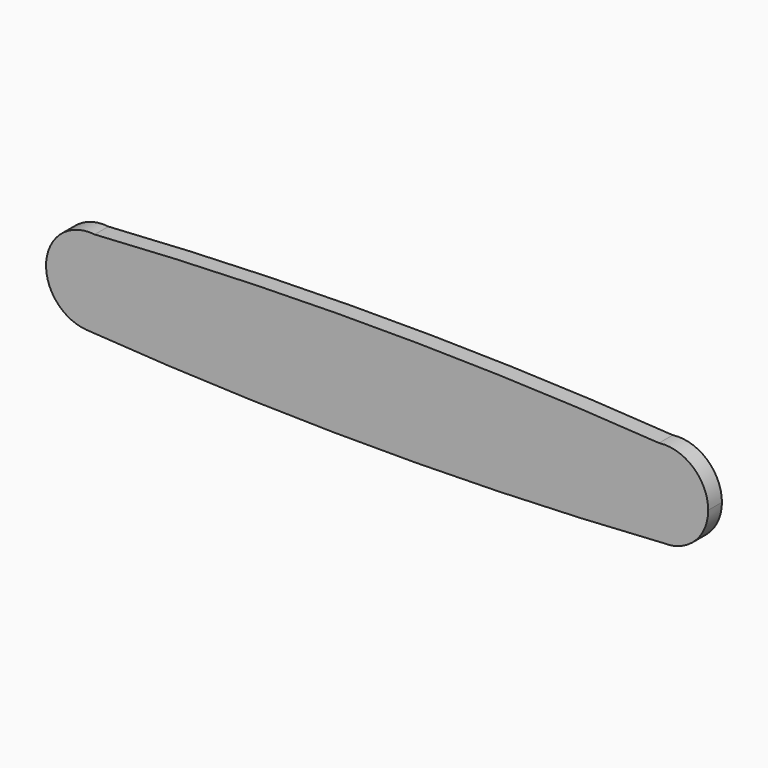
from build123d import *

# Parameters (mm, degrees)
F1_DEPTH = 20


with BuildPart() as f1:
    # F0 (on Front) → F1 (new body)
    with BuildSketch(Plane.XZ):
        with BuildLine():
            ThreePointArc((-45.694068, 50.379455), (-13.689544, 33.721123), (-0.85695, 0))
            Line((-0.85695, 0), (567.69905, 0))
            ThreePointArc((567.69905, 0), (580.31529, 33.476445), (611.887859, 50.29949))
            ThreePointArc((611.887859, 50.29949), (283.098252, 61.496997), (-45.694068, 50.379455))
        make_face()
        with BuildLine():
            ThreePointArc((-55.097962, -50.599781), (-16.979601, -37.089167), (-0.85695, 0))
            ThreePointArc((-0.85695, 0), (-13.689544, 33.721123), (-45.694068, 50.379455))
            ThreePointArc((-45.694068, 50.379455), (-102.082424, 4.703237), (-55.097962, -50.599781))
        make_face()
        with BuildLine():
            Line((567.69905, 0), (-0.85695, 0))
            ThreePointArc((-0.85695, 0), (-16.979601, -37.089167), (-55.097962, -50.599781))
            ThreePointArc((-55.097962, -50.599781), (280.743869, -62.286225), (616.588788, -50.688895))
            ThreePointArc((616.588788, -50.688895), (581.913124, -35.212109), (567.69905, 0))
        make_face()
        with BuildLine():
            ThreePointArc((611.887859, 50.29949), (580.31529, 33.476445), (567.69905, 0))
            ThreePointArc((567.69905, 0), (581.913124, -35.212109), (616.588788, -50.688895))
            ThreePointArc((616.588788, -50.688895), (653.633159, -36.507926), (669.14305, 0))
            ThreePointArc((669.14305, 0), (651.897495, 38.105759), (611.887859, 50.29949))
        make_face()
    extrude(amount=F1_DEPTH)


solid = f1.part
